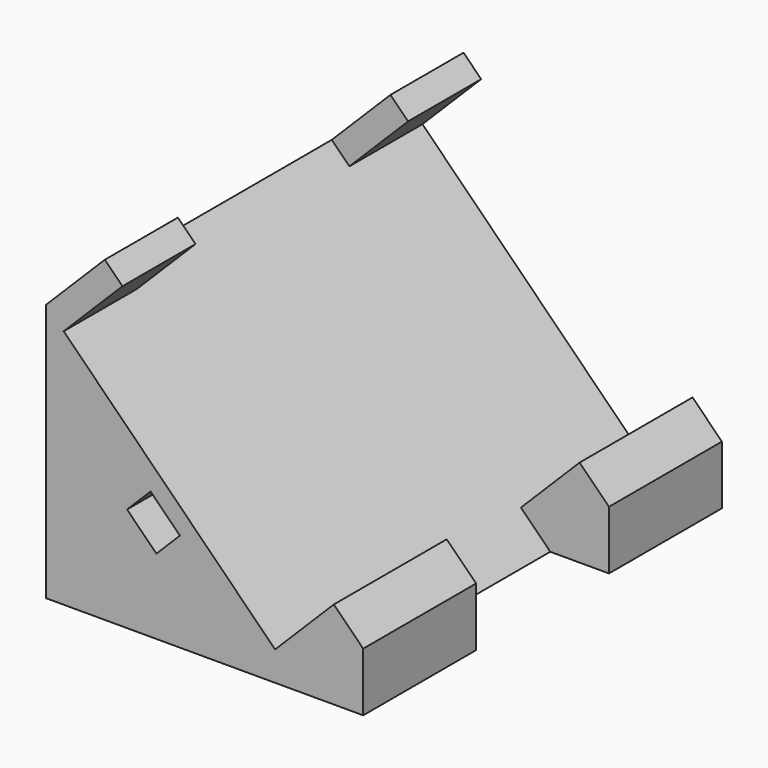
from build123d import *

# Parameters (mm, degrees)
F1_DEPTH = 27
F2_W     = 5
F2_H     = 16
F3_DEPTH = 25
F4_W     = 10
F4_H     = 5
F5_DEPTH = 25


with BuildPart() as f1:
    # F0 (on Front) → F1 (new body)
    with BuildSketch(Plane.XZ):
        Polygon((0, 15.5563491861), (0, 0), (15.5563491861, 0), (13.7885822331, 1.767766953), (1.0606601718, 14.4956890143), align=None)
        Polygon((4.8765578995, 6.2907714619), (6.2907714619, 7.7049850243), (8.0585384149, 5.9372180713), (6.6443248525, 4.5230045089), align=None, mode=Mode.SUBTRACT)
        Polygon((3.5355339059, 19.091883092), (0, 15.5563491861), (1.0606601718, 14.4956890143), (4.5961940777, 18.0312229203), align=None)
        Polygon((13.7885822331, 1.767766953), (15.5563491861, 0), (19.091883092, 3.5355339059), (17.3241161391, 5.3033008589), align=None)
        Polygon((19.091883092, 3.5355339059), (15.5563491861, 0), (19.091883092, 0), align=None)
    extrude(amount=F1_DEPTH)

    # F2 (on face) → F3 (cut)
    with BuildSketch(Plane(origin=(-6.7175144213, 0, 6.7175144213), x_dir=(0.7071067812, 0, 0.7071067812), z_dir=(0.7071067812, 0, -0.7071067812))):
        with Locations((13.5, 13.5)):
            Rectangle(F2_W, F2_H)
    extrude(amount=-F3_DEPTH, mode=Mode.SUBTRACT)

    # F4 (on face) → F5 (cut)
    with BuildSketch(Plane(origin=(6.0104076401, 0, -6.0104076401), x_dir=(0, -1, 0), z_dir=(-0.7071067812, 0, 0.7071067812))):
        with Locations((13.5, 13.5)):
            Rectangle(F4_W, F4_H)
    extrude(amount=-F5_DEPTH, mode=Mode.SUBTRACT)


solid = f1.part
